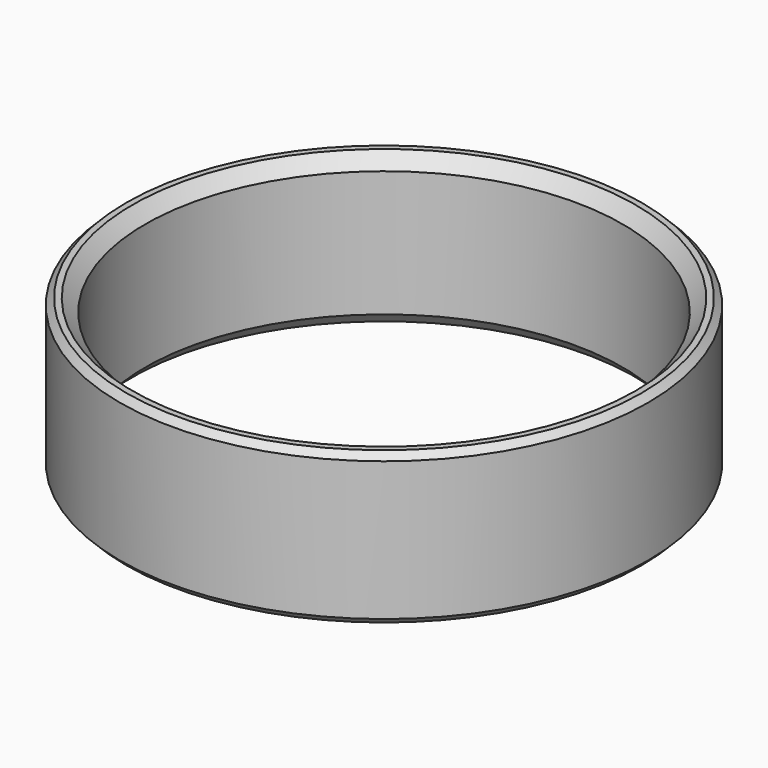
from build123d import *

# Parameters (mm, degrees)
F0_R     = 10.445
F0_R_2   = 9.445
F1_DEPTH = 6
F2_SIZE  = 0.508
F3_SIZE  = 0.254


with BuildPart() as f1:
    # F0 (on Top) → F1 (new body)
    with BuildSketch(Plane.XY):
        Circle(F0_R)
        Circle(F0_R_2, mode=Mode.SUBTRACT)
    extrude(amount=F1_DEPTH)

    # F2
    f2_edges = [f1.edges().sort_by_distance(p)[0] for p in [
        (-9.445, 0, 6),
        (-9.445, 0, 0),
    ]]
    chamfer(f2_edges, length=F2_SIZE)

    # F3
    f3_edges = [f1.edges().sort_by_distance(p)[0] for p in [
        (-10.445, 0, 6),
        (-10.445, 0, 0),
    ]]
    chamfer(f3_edges, length=F3_SIZE)


solid = f1.part
